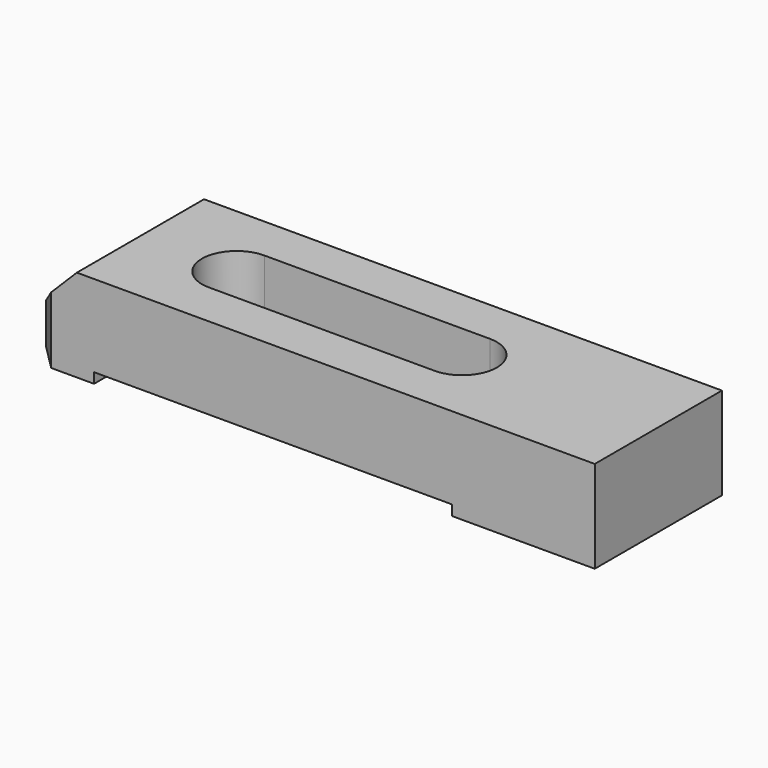
from build123d import *

# Parameters (mm, degrees)
F0_W     = 111
F0_H     = 31
F1_DEPTH = 18
F3_DEPTH = 20
F4_R     = 3.4
F5_DEPTH = 12
F6_W     = 69.834876
F6_H     = 31
F7_DEPTH = 2
F8_SIZE  = 10
F9_SIZE  = 5


with BuildPart() as f1:
    # F0 (on Top) → F1 (new body)
    with BuildSketch(Plane.XY):
        Rectangle(F0_W, F0_H)
    extrude(amount=F1_DEPTH)

    # F2 (on face) → F3 (cut)
    with BuildSketch(Plane.XY.offset(18)):
        with BuildLine():
            Line((17.25, 6.75), (-26.75, 6.75))
            ThreePointArc((-26.75, 6.75), (-33.5, 0), (-26.75, -6.75))
            Line((-26.75, -6.75), (17.25, -6.75))
            ThreePointArc((17.25, -6.75), (24, 0), (17.25, 6.75))
        make_face()
    extrude(amount=-F3_DEPTH, mode=Mode.SUBTRACT)

    # F4 (on face) → F5 (cut)
    with BuildSketch(Plane(origin=(0, 0, 0), x_dir=(1, 0, 0), z_dir=(0, 0, -1))):
        with Locations((42.5, 0)):
            Circle(F4_R)
    extrude(amount=-F5_DEPTH, mode=Mode.SUBTRACT)

    # F6 (on face) → F7 (cut)
    with BuildSketch(Plane(origin=(0, 0, 0), x_dir=(1, 0, 0), z_dir=(0, 0, -1))):
        with Locations((-7.229885, 0)):
            Rectangle(F6_W, F6_H)
    extrude(amount=-F7_DEPTH, mode=Mode.SUBTRACT)

    # F8
    f8_edges = [f1.edges().sort_by_distance(p)[0] for p in [
        (-55.5, 0, 18),
    ]]
    chamfer(f8_edges, length=F8_SIZE)

    # F9
    f9_edges = [f1.edges().sort_by_distance(p)[0] for p in [
        (-55.5, -15.5, 4),
        (-55.5, 15.5, 4),
    ]]
    chamfer(f9_edges, length=F9_SIZE)


solid = f1.part
